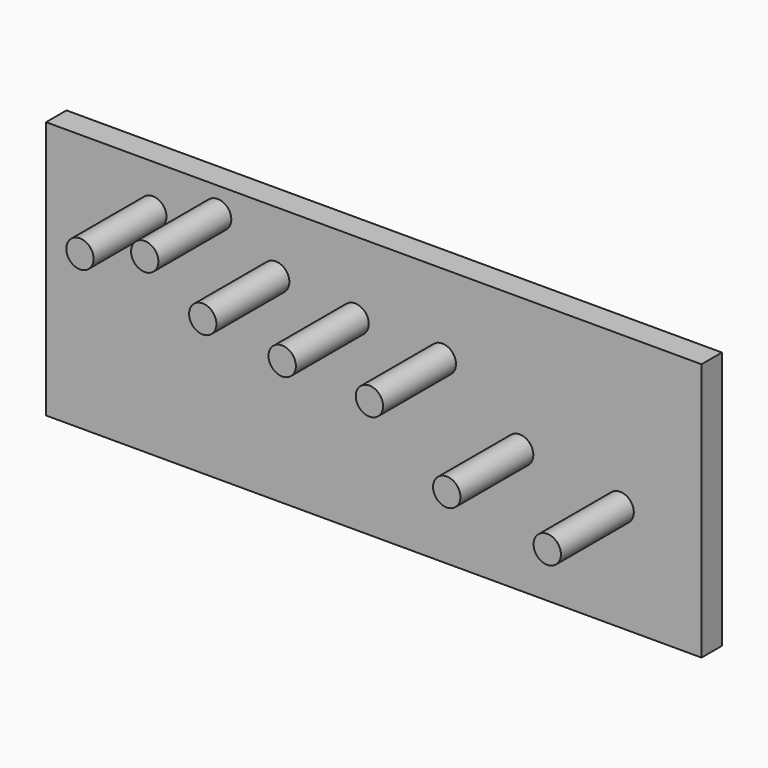
from build123d import *

# Parameters (mm, degrees)
F0_W      = 179.780744
F0_H      = 70.839242
F1_DEPTH  = 7
F2_R      = 3.75
F3_DEPTH  = 25
F4_R      = 3.75
F5_DEPTH  = 25
F6_R      = 3.75
F7_DEPTH  = 25
F8_R      = 3.75
F9_DEPTH  = 25
F10_R     = 3.75
F11_DEPTH = 25
F12_R     = 3.75
F13_DEPTH = 25
F14_R     = 3.75
F15_DEPTH = 25


with BuildPart() as f1:
    # F0 (on Front) → F1 (new body)
    with BuildSketch(Plane.XZ):
        with Locations((-1.086671, 22.967793)):
            Rectangle(F0_W, F0_H)
    extrude(amount=F1_DEPTH)

    # F2 (on face) → F3 (join)
    with BuildSketch(Plane.XZ.offset(7)):
        with Locations((-61.695352, 46.280116)):
            Circle(F2_R)
    extrude(amount=F3_DEPTH)

    # F4 (on face) → F5 (join)
    with BuildSketch(Plane.XZ.offset(7)):
        with Locations((-43.921127, 51.411094)):
            Circle(F4_R)
    extrude(amount=F5_DEPTH)

    # F6 (on face) → F7 (join)
    with BuildSketch(Plane.XZ.offset(7)):
        with Locations((-27.999029, 41.509111)):
            Circle(F6_R)
    extrude(amount=F7_DEPTH)

    # F8 (on face) → F9 (join)
    with BuildSketch(Plane.XZ.offset(7)):
        with Locations((-6.212159, 38.454227)):
            Circle(F8_R)
    extrude(amount=F9_DEPTH)

    # F10 (on face) → F11 (join)
    with BuildSketch(Plane.XZ.offset(7)):
        with Locations((17.710951, 36.534646)):
            Circle(F10_R)
    extrude(amount=F11_DEPTH)

    # F12 (on face) → F13 (join)
    with BuildSketch(Plane.XZ.offset(7)):
        with Locations((38.921294, 21.497313)):
            Circle(F12_R)
    extrude(amount=F13_DEPTH)

    # F14 (on face) → F15 (join)
    with BuildSketch(Plane.XZ.offset(7)):
        with Locations((66.4901, 16.602323)):
            Circle(F14_R)
    extrude(amount=F15_DEPTH)


solid = f1.part
